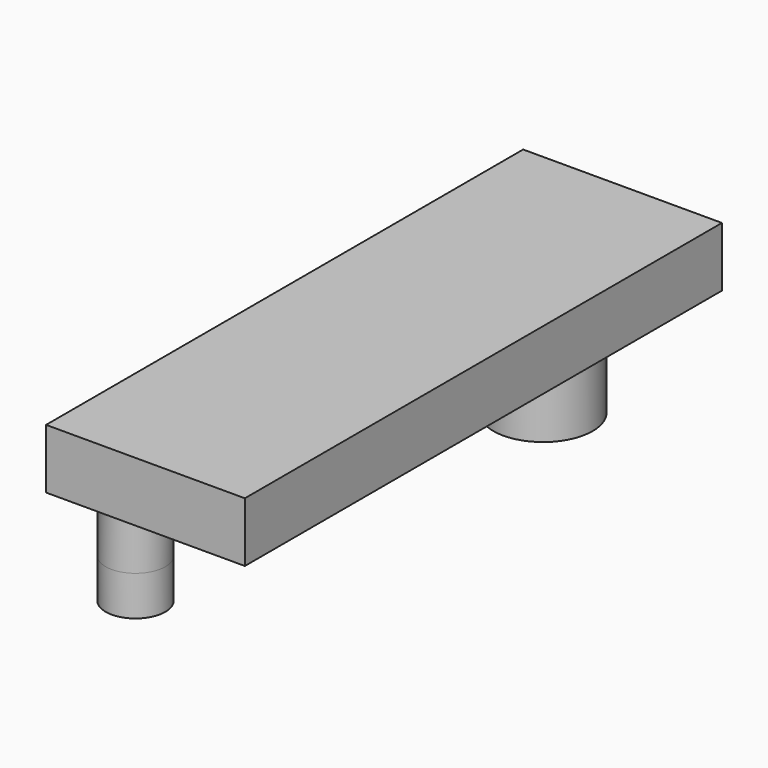
from build123d import *

# Parameters (mm, degrees)
F0_W     = 25.4
F0_H     = 76.2
F1_DEPTH = 7.62
F2_R     = 6.35
F3_DEPTH = 12.7
F5_DEPTH = 7.62
F6_R     = 3.81
F7_DEPTH = 7.62
F8_DEPTH = 5.08


with BuildPart() as f1:
    # F0 (on Top) → F1 (new body)
    with BuildSketch(Plane.XY):
        with Locations((-1.029531109, -3.4307520837)):
            Rectangle(F0_W, F0_H)
    extrude(amount=F1_DEPTH)

    # F2 (on face) → F3 (join)
    with BuildSketch(Plane(origin=(0, 0, 0), x_dir=(1, 0, 0), z_dir=(0, 0, -1))):
        with Locations((-1.029531109, -21.9692479163)):
            Circle(F2_R)
    extrude(amount=F3_DEPTH)

    # F4 (on face) → F5 (join)
    with BuildSketch(Plane(origin=(0, 0, 0), x_dir=(1, 0, 0), z_dir=(0, 0, -1))):
        with BuildLine():
            ThreePointArc((-13.729531109, -21.9692479163), (-13.6507066419, -20.5564746978), (-13.4152117126, -19.1612386598))
            add(Edge.make_bspline(
                [(-13.4152117126, -19.1612386598), (-12.8610433574, -14.3104636642), (-11.5717530157, -4.180075995), (-8.9574552779, 13.7376117238), (-1.3781278255, 26.6796034372), (5.8301842944, 35.8071219352), (11.670468891, 38.2592551099)],
                knots=[0.0402552104, 0.0402552104, 0.0402552104, 0.0402552104, 0.2518393979, 0.5131919232, 0.7477210565, 1, 1, 1, 1], degree=3))
            Line((11.670468891, 38.2592551099), (11.670468891, 41.5307520837))
            Line((11.670468891, 41.5307520837), (-13.729531109, 41.5307520837))
            Line((-13.729531109, 41.5307520837), (-13.729531109, -21.9692479163))
        make_face()
    extrude(amount=F5_DEPTH)

    # F6 (on face) → F7 (cut)
    with BuildSketch(Plane(origin=(0, 0, -7.62), x_dir=(1, 0, 0), z_dir=(0, 0, -1))):
        with BuildLine():
            Line((-13.729531109, 41.5307520837), (-13.729531109, -21.9692479163))
            ThreePointArc((-13.729531109, -21.9692479163), (-13.6507066419, -20.5564746978), (-13.4152117126, -19.1612386598))
            add(Edge.make_bspline(
                [(-13.4152117126, -19.1612386598), (-12.8610433574, -14.3104636642), (-11.5717530157, -4.180075995), (-8.9574552779, 13.7376117238), (-1.3781278255, 26.6796034372), (5.8301842944, 35.8071219352), (11.670468891, 38.2592551099)],
                knots=[0.0402552104, 0.0402552104, 0.0402552104, 0.0402552104, 0.2518393979, 0.5131919232, 0.7477210565, 1, 1, 1, 1], degree=3))
            Line((11.670468891, 38.2592551099), (11.670468891, 41.5307520837))
            Line((11.670468891, 41.5307520837), (-13.729531109, 41.5307520837))
        make_face()
        with Locations((-7.379531109, 35.1807520837)):
            Circle(F6_R, mode=Mode.SUBTRACT)
    extrude(amount=-F7_DEPTH, mode=Mode.SUBTRACT)

    # F8 (add): a face of the model
    f8_faces = [f1.faces().sort_by_distance(p)[0] for p in [
        (-7.379531109, -35.1807520837, -7.62),
    ]]
    extrude(f8_faces, amount=F8_DEPTH)


solid = f1.part
